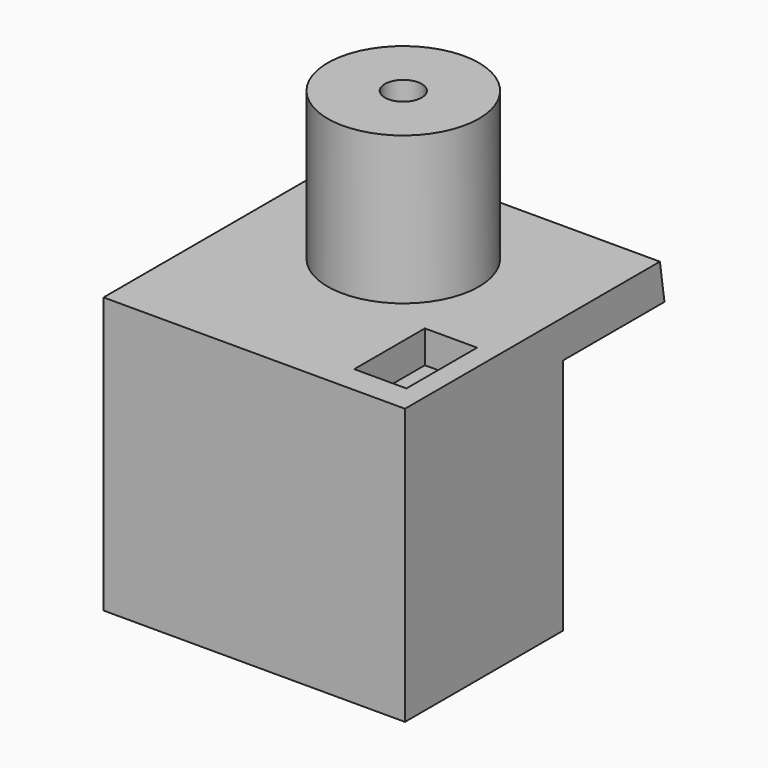
from build123d import *

# Parameters (mm, degrees)
F1_DEPTH = 51.791012
F2_R     = 12.992445
F3_DEPTH = 25.4
F5_D     = 6.35
F6_W     = 8.970857
F6_H     = 15.168444
F7_DEPTH = 5.578703


with BuildPart() as f1:
    # F0 (on Right) → F1 (new body)
    with BuildSketch(Plane.YZ):
        Polygon((21.825537, 0), (20.848211, 6.495342), (-33.898331, 6.495342), (-33.898331, -40.874604), (0, -40.874604), (0, 0), align=None)
    extrude(amount=F1_DEPTH)

    # F2 (on face) → F3 (join)
    with BuildSketch(Plane.XY.offset(6.495342)):
        with Locations((24.38122, 0)):
            Circle(F2_R)
    extrude(amount=F3_DEPTH)

    # F5 (through all)
    with Locations(Plane.XY.offset(31.895342)):
        with Locations((24.38122, 0)):
            Hole(F5_D / 2)

    # F6 (on face) → F7 (cut)
    with BuildSketch(Plane.XY.offset(6.495342)):
        with Locations((43.771073, -21.581918)):
            Rectangle(F6_W, F6_H)
    extrude(amount=-F7_DEPTH, mode=Mode.SUBTRACT)


solid = f1.part
